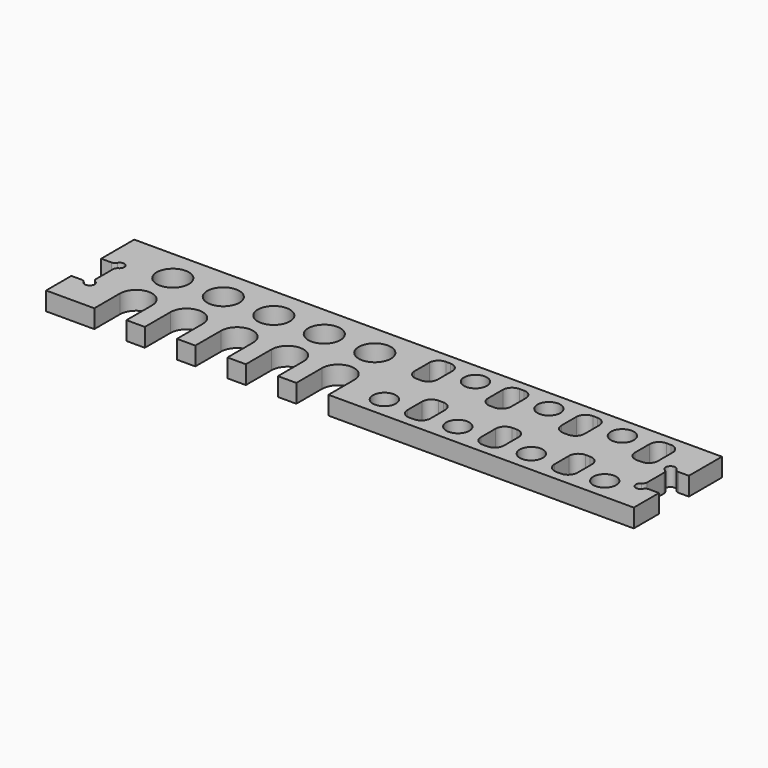
from build123d import *

# Parameters (mm, degrees)
F0_W     = 406.4
F0_H     = 76.2
F1_DEPTH = 12.7
F3_DEPTH = 25.4
F4_R     = 11.1125
F4_R_2   = 7.9375
F5_DEPTH = 25.4


with BuildPart() as f1:
    # F0 (on Top) → F1 (new body)
    with BuildSketch(Plane.XY):
        with Locations((203.2, 38.1)):
            Rectangle(F0_W, F0_H)
    extrude(amount=F1_DEPTH)

    # F2 (on face) → F3 (cut)
    with BuildSketch(Plane.XY.offset(12.7)):
        with BuildLine():
            Line((7.054568, 47.625), (0, 47.625))
            Line((0, 47.625), (0, 21.844))
            Line((0, 21.844), (7.054568, 21.844))
            ThreePointArc((7.054568, 21.844), (8.657556, 21.40963), (9.821937, 20.225373))
            ThreePointArc((9.821937, 20.225373), (15.034867, 19.509133), (14.318627, 24.722063))
            ThreePointArc((14.318627, 24.722063), (13.13437, 25.886444), (12.7, 27.489432))
            Line((12.7, 27.489432), (12.7, 41.979568))
            ThreePointArc((12.7, 41.979568), (13.13437, 43.582556), (14.318627, 44.746937))
            ThreePointArc((14.318627, 44.746937), (15.034867, 49.959867), (9.821937, 49.243627))
            ThreePointArc((9.821937, 49.243627), (8.657556, 48.05937), (7.054568, 47.625))
        make_face()
        with BuildLine():
            Line((393.7, 41.979568), (393.7, 27.489432))
            ThreePointArc((393.7, 27.489432), (393.26563, 25.886444), (392.081373, 24.722063))
            ThreePointArc((392.081373, 24.722063), (391.365133, 19.509133), (396.578063, 20.225373))
            ThreePointArc((396.578063, 20.225373), (397.742444, 21.40963), (399.345432, 21.844))
            Line((399.345432, 21.844), (406.4, 21.844))
            Line((406.4, 21.844), (406.4, 47.625))
            Line((406.4, 47.625), (399.345432, 47.625))
            ThreePointArc((399.345432, 47.625), (397.742444, 48.05937), (396.578063, 49.243627))
            ThreePointArc((396.578063, 49.243627), (391.365133, 49.959867), (392.081373, 44.746937))
            ThreePointArc((392.081373, 44.746937), (393.26563, 43.582556), (393.7, 41.979568))
        make_face()
    extrude(amount=-F3_DEPTH, mode=Mode.SUBTRACT)

    # F4 (on face) → F5 (cut)
    with BuildSketch(Plane.XY.offset(12.7)):
        with Locations((44.45, 53.975)):
            Circle(F4_R)
        with BuildLine():
            Line((55.5625, -12.145572), (55.5625, 22.225))
            ThreePointArc((55.5625, 22.225), (44.45, 33.3375), (33.3375, 22.225))
            Line((33.3375, 22.225), (33.3375, 0))
            Line((33.3375, 0), (33.3375, -12.145572))
            Line((33.3375, -12.145572), (55.5625, -12.145572))
        make_face()
        with Locations((222.25, 14.605)):
            Circle(F4_R_2)
        with Locations((247.65, 61.595)):
            Circle(F4_R_2)
        with BuildLine():
            Line((220.6625, 44.364775), (223.8375, 44.364775))
            ThreePointArc((223.8375, 44.364775), (228.327628, 46.224647), (230.1875, 50.714775))
            Line((230.1875, 50.714775), (230.1875, 63.414775))
            ThreePointArc((230.1875, 63.414775), (228.327628, 67.904903), (223.8375, 69.764775))
            Line((223.8375, 69.764775), (220.6625, 69.764775))
            ThreePointArc((220.6625, 69.764775), (216.172372, 67.904903), (214.3125, 63.414775))
            Line((214.3125, 63.414775), (214.3125, 50.714775))
            ThreePointArc((214.3125, 50.714775), (216.172372, 46.224647), (220.6625, 44.364775))
        make_face()
        with BuildLine():
            Line((246.0625, 6.4262), (249.2375, 6.4262))
            ThreePointArc((249.2375, 6.4262), (253.727628, 8.286072), (255.5875, 12.7762))
            Line((255.5875, 12.7762), (255.5875, 25.4762))
            ThreePointArc((255.5875, 25.4762), (253.727628, 29.966328), (249.2375, 31.8262))
            Line((249.2375, 31.8262), (246.0625, 31.8262))
            ThreePointArc((246.0625, 31.8262), (241.572372, 29.966328), (239.7125, 25.4762))
            Line((239.7125, 25.4762), (239.7125, 12.7762))
            ThreePointArc((239.7125, 12.7762), (241.572372, 8.286072), (246.0625, 6.4262))
        make_face()
        with BuildLine():
            Line((296.8625, 6.4262), (300.0375, 6.4262))
            ThreePointArc((300.0375, 6.4262), (304.527628, 8.286072), (306.3875, 12.7762))
            Line((306.3875, 12.7762), (306.3875, 25.4762))
            ThreePointArc((306.3875, 25.4762), (304.527628, 29.966328), (300.0375, 31.8262))
            Line((300.0375, 31.8262), (296.8625, 31.8262))
            ThreePointArc((296.8625, 31.8262), (292.372372, 29.966328), (290.5125, 25.4762))
            Line((290.5125, 25.4762), (290.5125, 12.7762))
            ThreePointArc((290.5125, 12.7762), (292.372372, 8.286072), (296.8625, 6.4262))
        make_face()
        with BuildLine():
            Line((265.1125, 63.414775), (265.1125, 50.714775))
            ThreePointArc((265.1125, 50.714775), (266.972372, 46.224647), (271.4625, 44.364775))
            Line((271.4625, 44.364775), (274.6375, 44.364775))
            ThreePointArc((274.6375, 44.364775), (279.127628, 46.224647), (280.9875, 50.714775))
            Line((280.9875, 50.714775), (280.9875, 63.414775))
            ThreePointArc((280.9875, 63.414775), (279.127628, 67.904903), (274.6375, 69.764775))
            Line((274.6375, 69.764775), (271.4625, 69.764775))
            ThreePointArc((271.4625, 69.764775), (266.972372, 67.904903), (265.1125, 63.414775))
        make_face()
        with Locations((298.45, 61.595)):
            Circle(F4_R_2)
        with Locations((273.05, 14.605)):
            Circle(F4_R_2)
        with BuildLine():
            Line((347.6625, 6.4262), (350.8375, 6.4262))
            ThreePointArc((350.8375, 6.4262), (355.327628, 8.286072), (357.1875, 12.7762))
            Line((357.1875, 12.7762), (357.1875, 25.4762))
            ThreePointArc((357.1875, 25.4762), (355.327628, 29.966328), (350.8375, 31.8262))
            Line((350.8375, 31.8262), (347.6625, 31.8262))
            ThreePointArc((347.6625, 31.8262), (343.172372, 29.966328), (341.3125, 25.4762))
            Line((341.3125, 25.4762), (341.3125, 12.7762))
            ThreePointArc((341.3125, 12.7762), (343.172372, 8.286072), (347.6625, 6.4262))
        make_face()
        with BuildLine():
            Line((315.9125, 63.414775), (315.9125, 50.714775))
            ThreePointArc((315.9125, 50.714775), (317.772372, 46.224647), (322.2625, 44.364775))
            Line((322.2625, 44.364775), (325.4375, 44.364775))
            ThreePointArc((325.4375, 44.364775), (329.927628, 46.224647), (331.7875, 50.714775))
            Line((331.7875, 50.714775), (331.7875, 63.414775))
            ThreePointArc((331.7875, 63.414775), (329.927628, 67.904903), (325.4375, 69.764775))
            Line((325.4375, 69.764775), (322.2625, 69.764775))
            ThreePointArc((322.2625, 69.764775), (317.772372, 67.904903), (315.9125, 63.414775))
        make_face()
        with Locations((349.25, 61.595)):
            Circle(F4_R_2)
        with Locations((323.85, 14.605)):
            Circle(F4_R_2)
        with BuildLine():
            Line((366.7125, 63.414775), (366.7125, 50.714775))
            ThreePointArc((366.7125, 50.714775), (368.572372, 46.224647), (373.0625, 44.364775))
            Line((373.0625, 44.364775), (376.2375, 44.364775))
            ThreePointArc((376.2375, 44.364775), (380.727628, 46.224647), (382.5875, 50.714775))
            Line((382.5875, 50.714775), (382.5875, 63.414775))
            ThreePointArc((382.5875, 63.414775), (380.727628, 67.904903), (376.2375, 69.764775))
            Line((376.2375, 69.764775), (373.0625, 69.764775))
            ThreePointArc((373.0625, 69.764775), (368.572372, 67.904903), (366.7125, 63.414775))
        make_face()
        with Locations((374.65, 14.605)):
            Circle(F4_R_2)
        with BuildLine():
            Line((90.4875, -12.145572), (90.4875, 22.225))
            ThreePointArc((90.4875, 22.225), (79.375, 33.3375), (68.2625, 22.225))
            Line((68.2625, 22.225), (68.2625, 0))
            Line((68.2625, 0), (68.2625, -12.145572))
            Line((68.2625, -12.145572), (90.4875, -12.145572))
        make_face()
        with Locations((79.375, 53.975)):
            Circle(F4_R)
        with BuildLine():
            Line((125.4125, -12.145572), (125.4125, 22.225))
            ThreePointArc((125.4125, 22.225), (114.3, 33.3375), (103.1875, 22.225))
            Line((103.1875, 22.225), (103.1875, 0))
            Line((103.1875, 0), (103.1875, -12.145572))
            Line((103.1875, -12.145572), (125.4125, -12.145572))
        make_face()
        with Locations((114.3, 53.975)):
            Circle(F4_R)
        with BuildLine():
            Line((160.3375, -12.145572), (160.3375, 22.225))
            ThreePointArc((160.3375, 22.225), (149.225, 33.3375), (138.1125, 22.225))
            Line((138.1125, 22.225), (138.1125, 0))
            Line((138.1125, 0), (138.1125, -12.145572))
            Line((138.1125, -12.145572), (160.3375, -12.145572))
        make_face()
        with Locations((149.225, 53.975)):
            Circle(F4_R)
        with BuildLine():
            Line((195.2625, -12.145572), (195.2625, 22.225))
            ThreePointArc((195.2625, 22.225), (184.15, 33.3375), (173.0375, 22.225))
            Line((173.0375, 22.225), (173.0375, 0))
            Line((173.0375, 0), (173.0375, -12.145572))
            Line((173.0375, -12.145572), (195.2625, -12.145572))
        make_face()
        with Locations((184.15, 53.975)):
            Circle(F4_R)
    extrude(amount=-F5_DEPTH, mode=Mode.SUBTRACT)


solid = f1.part
